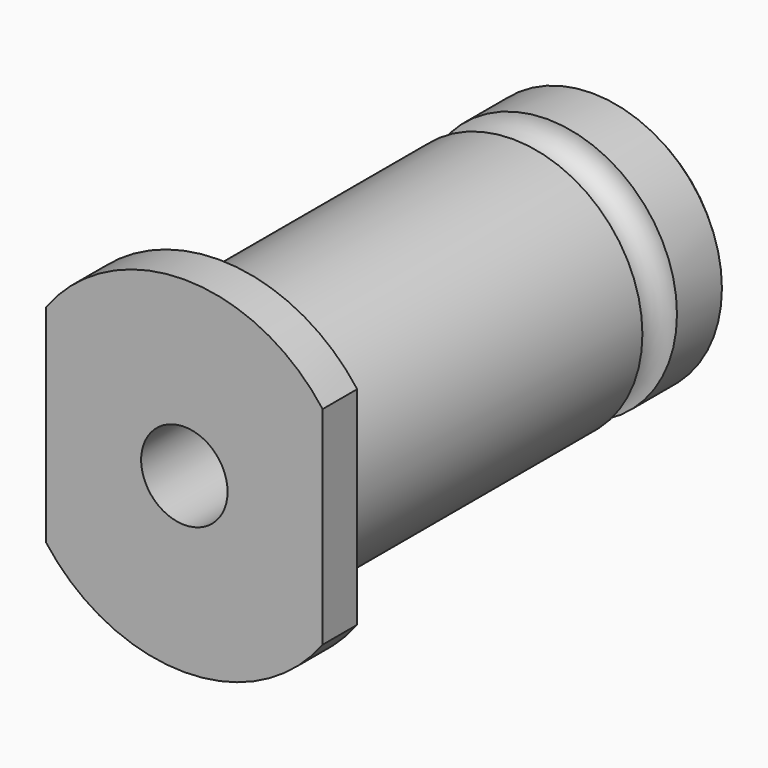
from build123d import *

# Parameters (mm, degrees)
F1_DEPTH = 5
F2_R     = 15
F3_DEPTH = 55
F4_R     = 5
F5_DEPTH = 55
F6_DEPTH = 5


with BuildPart() as f1:
    # F0 (on Front) → F1 (new body)
    with BuildSketch(Plane.XZ):
        with BuildLine():
            Line((16, 0), (16, 12))
            ThreePointArc((16, 12), (0, 20), (-16, 12))
            Line((-16, 12), (-16, 0))
            Line((-16, 0), (0, 0))
            Line((0, 0), (16, 0))
        make_face()
        with BuildLine():
            ThreePointArc((-16, -12), (0, -20), (16, -12))
            Line((16, -12), (16, 0))
            Line((16, 0), (0, 0))
            Line((0, 0), (-16, 0))
            Line((-16, 0), (-16, -12))
        make_face()
    extrude(amount=F1_DEPTH)

    # F2 (on face) → F3 (join)
    with BuildSketch(Plane.XZ):
        Circle(F2_R)
    extrude(amount=-F3_DEPTH)

    # F4 (on Front) → F5 (cut, through all)
    with BuildSketch(Plane.XZ):
        Circle(F4_R)
    extrude(amount=-F5_DEPTH, mode=Mode.SUBTRACT)

    # F4 (on Front) → F6 (cut, through all)
    with BuildSketch(Plane.XZ):
        Circle(F4_R)
    extrude(amount=F6_DEPTH, mode=Mode.SUBTRACT)

    # F7 (on Right) → F8 (revolve, cut)
    with BuildSketch(Plane.YZ):
        with BuildLine():
            Line((45, 15), (42.5, 15))
            ThreePointArc((42.5, 15), (45, 12.5), (47.5, 15))
            Line((47.5, 15), (45, 15))
        make_face()
    revolve(axis=Axis((0, 0, 0), (0, -1, 0)), mode=Mode.SUBTRACT)

    # F7 (on Right) → F9 (revolve, cut)
    with BuildSketch(Plane.YZ):
        Polygon((54, 15), (55, 14), (55, 15), align=None)
    revolve(axis=Axis((0, 0, 0), (0, -1, 0)), mode=Mode.SUBTRACT)


solid = f1.part
